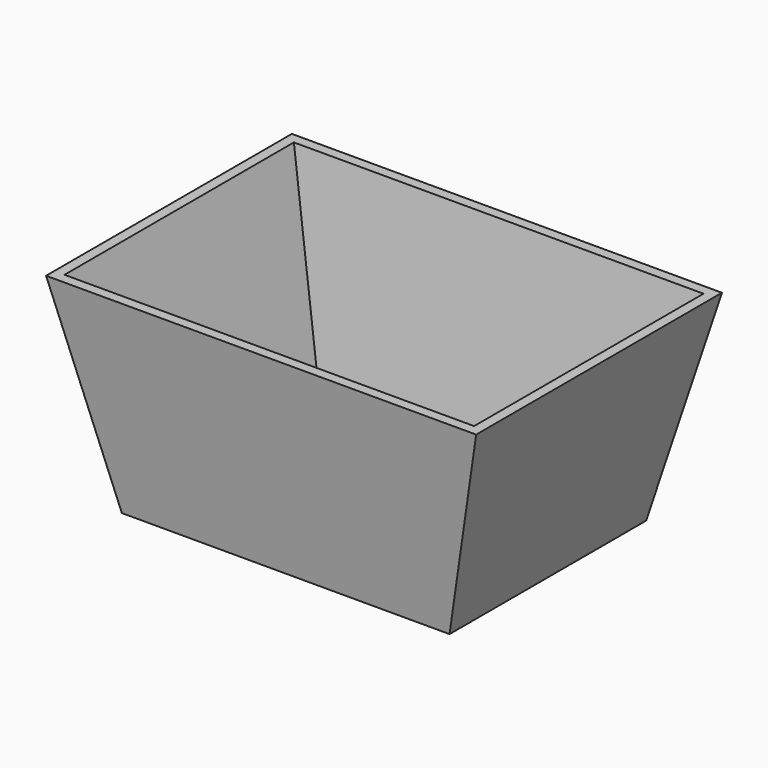
from build123d import *

# Parameters (mm, degrees)
F0_W     = 381
F0_H     = 279.4
F7_DEPTH = 12.7


with BuildPart() as f3:
    # F0 (on Top) → F3 section 0
    with BuildSketch(Plane.XY):
        Polygon((203.2, 152.4), (-203.2, 152.4), (-190.5, 139.7), (190.5, 139.7), align=None)
    # F2 (on offset) → F3 section 1
    with BuildSketch(Plane.XY.offset(254)):
        Polygon((266.7, 190.5), (-266.7, 190.5), (-254, 177.8), (254, 177.8), align=None)
    loft()

    # F0 (on Top) → F4 section 0
    with BuildSketch(Plane.XY):
        Polygon((-190.5, 139.7), (-203.2, 152.4), (-203.2, -152.4), (-190.5, -139.7), align=None)
    # F2 (on offset) → F4 section 1
    with BuildSketch(Plane.XY.offset(254)):
        Polygon((-254, 177.8), (-266.7, 190.5), (-266.7, -190.5), (-254, -177.8), align=None)
    loft()

    # F2 (on offset) → F5 section 0
    with BuildSketch(Plane.XY.offset(254)):
        Polygon((-254, -177.8), (-266.7, -190.5), (266.7, -190.5), (254, -177.8), align=None)
    # F0 (on Top) → F5 section 1
    with BuildSketch(Plane.XY):
        Polygon((-190.5, -139.7), (-203.2, -152.4), (203.2, -152.4), (190.5, -139.7), align=None)
    loft()

    # F2 (on offset) → F6 section 0
    with BuildSketch(Plane.XY.offset(254)):
        Polygon((266.7, -190.5), (266.7, 190.5), (254, 177.8), (254, -177.8), align=None)
    # F0 (on Top) → F6 section 1
    with BuildSketch(Plane.XY):
        Polygon((203.2, -152.4), (203.2, 152.4), (190.5, 139.7), (190.5, -139.7), align=None)
    loft()

    # F0 (on Top) → F7 (join)
    with BuildSketch(Plane.XY):
        Polygon((203.2, 152.4), (-203.2, 152.4), (-190.5, 139.7), (190.5, 139.7), align=None)
        Polygon((-190.5, 139.7), (-203.2, 152.4), (-203.2, -152.4), (-190.5, -139.7), align=None)
        Polygon((-190.5, -139.7), (-203.2, -152.4), (203.2, -152.4), (190.5, -139.7), align=None)
        Polygon((203.2, -152.4), (203.2, 152.4), (190.5, 139.7), (190.5, -139.7), align=None)
        Rectangle(F0_W, F0_H)
    extrude(amount=F7_DEPTH)


solid = f3.part
